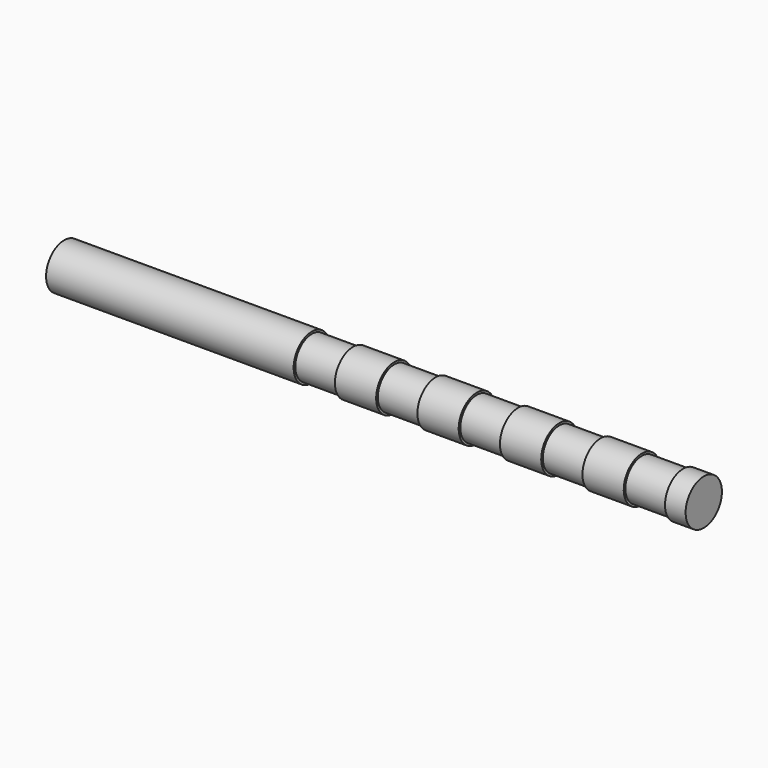
from build123d import *

# Parameters (mm, degrees)
F0_W     = 6
F0_H     = 0.1
F0_H_2   = 1
F0_W_2   = 2
F0_W_3   = 1
F2_DEPTH = 6


with BuildPart() as f1:
    # F0 (on Front) → F1 (revolve)
    with BuildSketch(Plane.XZ):
        with Locations((-22, 1.05)):
            Rectangle(F0_W, F0_H)
        with Locations((-22, 0.5)):
            Rectangle(F0_W, F0_H_2)
        with Locations((-12, 0.5)):
            Rectangle(F0_W_2, F0_H_2)
        with Locations((-12, 1.05)):
            Rectangle(F0_W_2, F0_H)
        with Locations((-10, 0.5)):
            Rectangle(F0_W_2, F0_H_2)
        with Locations((-8, 0.5)):
            Rectangle(F0_W_2, F0_H_2)
        with Locations((-8, 1.05)):
            Rectangle(F0_W_2, F0_H)
        with Locations((-6, 0.5)):
            Rectangle(F0_W_2, F0_H_2)
        with Locations((-4, 0.5)):
            Rectangle(F0_W_2, F0_H_2)
        with Locations((-4, 1.05)):
            Rectangle(F0_W_2, F0_H)
        with Locations((-2, 0.5)):
            Rectangle(F0_W_2, F0_H_2)
        with Locations((-0.5, 0.5)):
            Rectangle(F0_W_3, F0_H_2)
        with Locations((-0.5, 1.05)):
            Rectangle(F0_W_3, F0_H)
        with Locations((-14, 0.5)):
            Rectangle(F0_W_2, F0_H_2)
        with Locations((-16, 0.5)):
            Rectangle(F0_W_2, F0_H_2)
        with Locations((-16, 1.05)):
            Rectangle(F0_W_2, F0_H)
        with Locations((-18, 0.5)):
            Rectangle(F0_W_2, F0_H_2)
    revolve(axis=Axis((-12.5, 0, 0), (-1, 0, 0)))

    # F2 (add): a face of the model
    f2_faces = [f1.faces().sort_by_distance(p)[0] for p in [
        (-25, 0, 0),
    ]]
    extrude(f2_faces, amount=F2_DEPTH)


solid = f1.part
